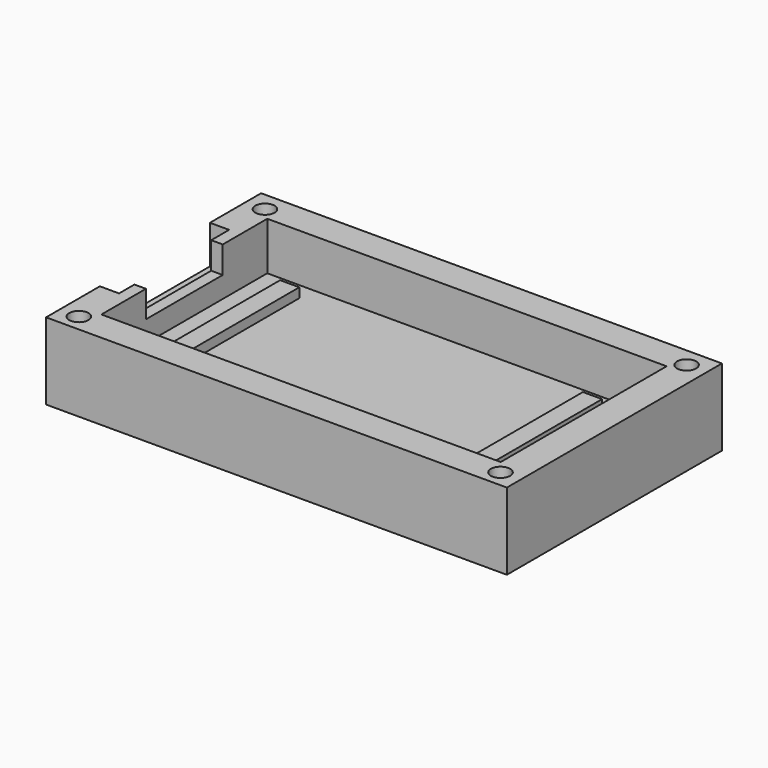
from build123d import *

# Parameters (mm, degrees)
SKETCH_W        = 48
SKETCH_H        = 28
PAD_DEPTH       = 8
SKETCH001_W     = 41.6
SKETCH001_H     = 21.6
POCKET_DEPTH    = 5
SKETCH002_W     = 4.279463
SKETCH002_H     = 10
POCKET001_DEPTH = 2.8
SKETCH003_W     = 2
SKETCH003_H     = 18
PAD001_DEPTH    = 1
SKETCH004_W     = 14.332329
SKETCH004_H     = 4
POCKET002_DEPTH = 2
SKETCH005_R     = 1
POCKET003_DEPTH = 3


with BuildPart() as part:
    # Sketch → Pad (new body)
    with BuildSketch(Plane.XY):
        with Locations((24, 14)):
            Rectangle(SKETCH_W, SKETCH_H)
    extrude(amount=PAD_DEPTH)

    # Sketch001 → Pocket (cut)
    with BuildSketch(Plane.XY.offset(8)):
        with Locations((24, 14)):
            Rectangle(SKETCH001_W, SKETCH001_H)
    extrude(amount=-POCKET_DEPTH, mode=Mode.SUBTRACT)

    # Sketch002 → Pocket001 (cut)
    with BuildSketch(Plane.XY.offset(8)):
        with Locations((2.139731, 14)):
            Rectangle(SKETCH002_W, SKETCH002_H)
    extrude(amount=-POCKET001_DEPTH, mode=Mode.SUBTRACT)

    # Sketch003 → Pad001 (new body)
    with BuildSketch(Plane.XY.offset(3)):
        with Locations((6.978305, 14)):
            Rectangle(SKETCH003_W, SKETCH003_H)
        with Locations((38.519785, 14)):
            Rectangle(SKETCH003_W, SKETCH003_H)
    extrude(amount=PAD001_DEPTH)

    # Sketch004 → Pocket002 (cut)
    with BuildSketch(Plane(origin=(0, 0, 0), x_dir=(0, -1, 0), z_dir=(-1, 0, 0))):
        with Locations((-14.166164, 6)):
            Rectangle(SKETCH004_W, SKETCH004_H)
    extrude(amount=-POCKET002_DEPTH, mode=Mode.SUBTRACT)

    # Sketch005 → Pocket003 (cut)
    with BuildSketch(Plane.XY.offset(8)):
        with Locations((2, 26)):
            Circle(SKETCH005_R)
        with Locations((2, 1.768416)):
            Circle(SKETCH005_R)
        with Locations((45.92067, 1.768416)):
            Circle(SKETCH005_R)
        with Locations((45.92067, 26)):
            Circle(SKETCH005_R)
    extrude(amount=-POCKET003_DEPTH, mode=Mode.SUBTRACT)


solid = part.part
